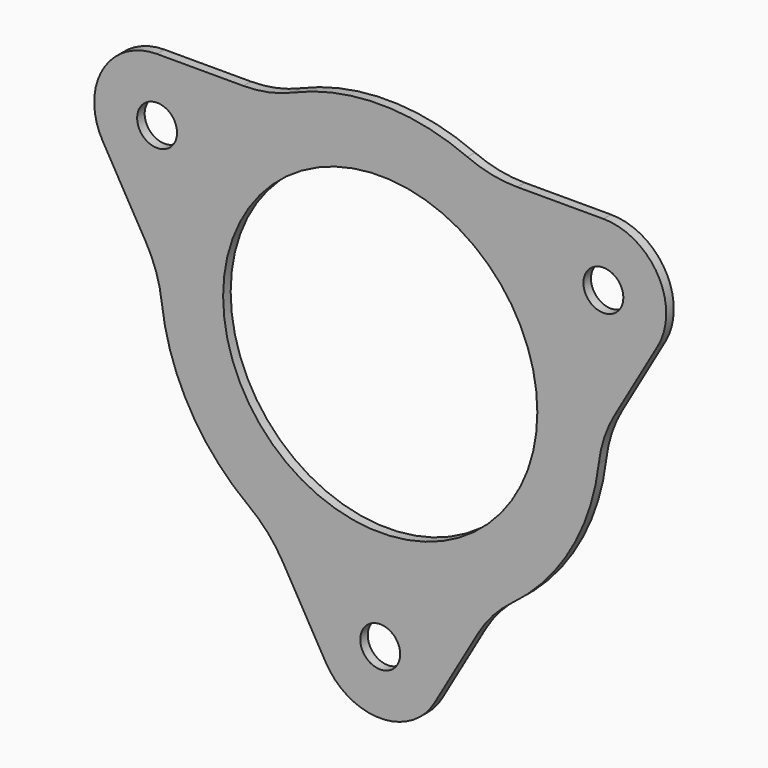
from build123d import *

# Parameters (mm, degrees)
F0_R     = 3.175
F0_R_2   = 25
F1_DEPTH = 1.5
F2_R     = 20


with BuildPart() as f1:
    # F0 (on Front) → F1 (new body)
    with BuildSketch(Plane.XZ):
        with BuildLine():
            Line((-17.829632, -30.118171), (-8.660254, -46))
            ThreePointArc((-8.660254, -46), (0, -51), (8.660254, -46))
            Line((8.660254, -46), (17.829632, -30.118171))
            ThreePointArc((17.829632, -30.118171), (30.310889, -17.5), (34.997917, -0.381829))
            Line((34.997917, -0.381829), (44.167296, 15.5))
            ThreePointArc((44.167296, 15.5), (44.167296, 25.5), (35.507042, 30.5))
            Line((35.507042, 30.5), (17.168285, 30.5))
            ThreePointArc((17.168285, 30.5), (0, 35), (-17.168285, 30.5))
            Line((-17.168285, 30.5), (-35.507042, 30.5))
            ThreePointArc((-35.507042, 30.5), (-44.167296, 25.5), (-44.167296, 15.5))
            Line((-44.167296, 15.5), (-34.997917, -0.381829))
            ThreePointArc((-34.997917, -0.381829), (-30.310889, -17.5), (-17.829632, -30.118171))
        make_face()
        with Locations((0, -41)):
            Circle(F0_R, mode=Mode.SUBTRACT)
        with Locations((-35.507042, 20.5)):
            Circle(F0_R, mode=Mode.SUBTRACT)
        Circle(F0_R_2, mode=Mode.SUBTRACT)
        with Locations((35.507042, 20.5)):
            Circle(F0_R, mode=Mode.SUBTRACT)
    extrude(amount=F1_DEPTH)

    # F2
    f2_edges = [f1.edges().sort_by_distance(p)[0] for p in [
        (34.997917, -0.75, -0.381829),
        (17.168285, -0.75, 30.5),
        (-17.168285, -0.75, 30.5),
        (-34.997917, -0.75, -0.381829),
        (-17.829632, -0.75, -30.118171),
        (17.829632, -0.75, -30.118171),
    ]]
    fillet(f2_edges, radius=F2_R)


solid = f1.part
